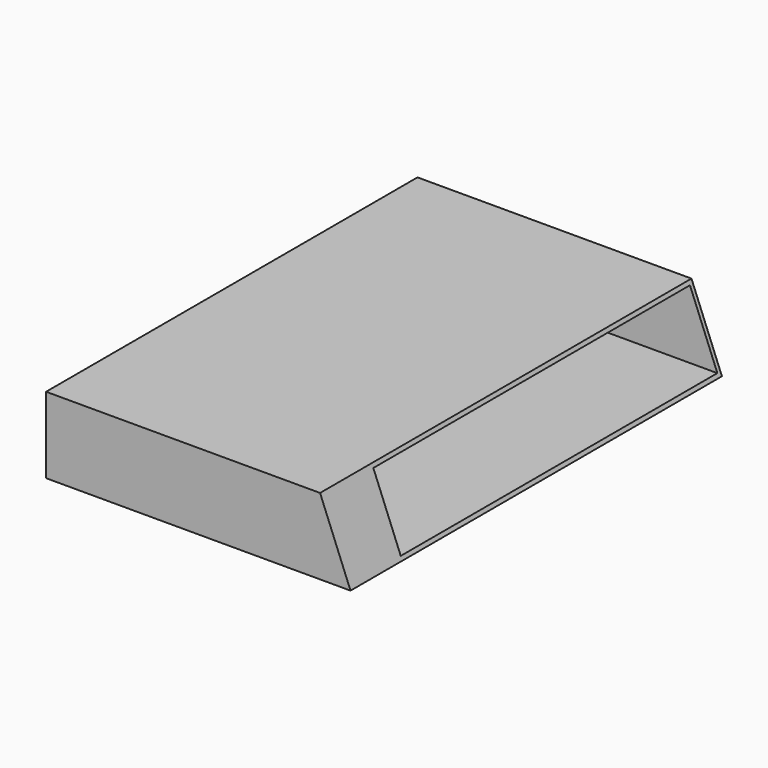
from build123d import *

# Parameters (mm, degrees)
F1_DEPTH = 330.2
F2_DEPTH = 3.175
F4_DEPTH = 53.975


with BuildPart() as f1:
    # F0 (on Front) → F1 (new body)
    with BuildSketch(Plane.XZ):
        Polygon((-134.881878, 63.5), (-134.881878, 0), (119.118122, 0), (117.848122, 3.175), (-131.706878, 3.175), (-131.706878, 60.325), (94.988122, 60.325), (93.718122, 63.5), align=None)
    extrude(amount=F1_DEPTH)

    # F0 (on Front) → F2 (join)
    with BuildSketch(Plane.XZ):
        Polygon((-131.706878, 3.175), (117.848122, 3.175), (94.988122, 60.325), (-131.706878, 60.325), align=None)
        Polygon((-134.881878, 63.5), (-134.881878, 0), (119.118122, 0), (117.848122, 3.175), (-131.706878, 3.175), (-131.706878, 60.325), (94.988122, 60.325), (93.718122, 63.5), align=None)
    extrude(amount=-F2_DEPTH)

    # F3 (on face) → F4 (join)
    with BuildSketch(Plane.XZ.offset(330.2)):
        Polygon((117.848122, 3.175), (94.988122, 60.325), (-131.706878, 60.325), (-131.706878, 3.175), align=None)
        Polygon((94.988122, 60.325), (93.718122, 63.5), (-134.881878, 63.5), (-134.881878, 0), (119.118122, 0), (117.848122, 3.175), (-131.706878, 3.175), (-131.706878, 60.325), align=None)
    extrude(amount=F4_DEPTH)


solid = f1.part
